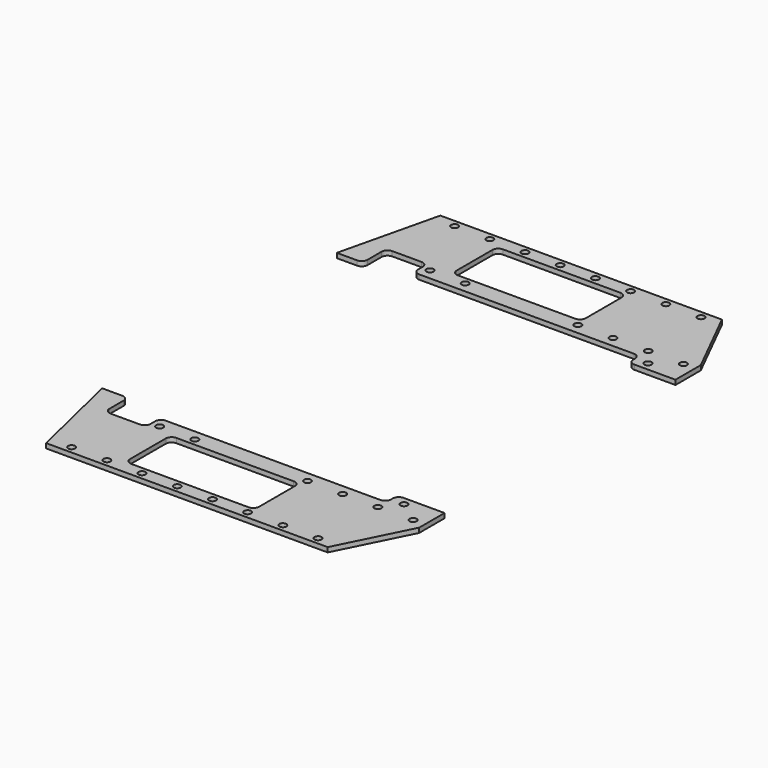
from build123d import *

# Parameters (mm, degrees)
F0_W      = 320
F0_H      = 420
F1_DEPTH  = 4
F3_DEPTH  = 4
F4_R      = 3
F5_DEPTH  = 25
F6_R      = 3
F7_DEPTH  = 25
F8_R      = 3
F9_DEPTH  = 25
F11_DEPTH = 25


with BuildPart() as f1:
    # F0 (on Top) → F1 (new body)
    with BuildSketch(Plane.XY):
        with Locations((160, 210)):
            Rectangle(F0_W, F0_H)
    extrude(amount=F1_DEPTH)

    # F2 (on face) → F3 (cut, through all)
    with BuildSketch(Plane.XY.offset(4)):
        Polygon((320, 420), (290, 420), (320, 360), align=None)
        Polygon((320, 60), (290, 0), (320, 0), align=None)
        with BuildLine():
            Line((113, 360), (213, 360))
            ThreePointArc((213, 360), (216.535534, 361.464466), (218, 365))
            Line((218, 365), (218, 403))
            ThreePointArc((218, 403), (216.535534, 406.535534), (213, 408))
            Line((213, 408), (113, 408))
            ThreePointArc((113, 408), (109.464466, 406.535534), (108, 403))
            Line((108, 403), (108, 365))
            ThreePointArc((108, 365), (109.464466, 361.464466), (113, 360))
        make_face()
        with BuildLine():
            Line((113, 12), (213, 12))
            ThreePointArc((213, 12), (216.535534, 13.464466), (218, 17))
            Line((218, 17), (218, 55))
            ThreePointArc((218, 55), (216.535534, 58.535534), (213, 60))
            Line((213, 60), (113, 60))
            ThreePointArc((113, 60), (109.464466, 58.535534), (108, 55))
            Line((108, 55), (108, 17))
            ThreePointArc((108, 17), (109.464466, 13.464466), (113, 12))
        make_face()
        Polygon((0, 420), (0, 210), (50, 420), align=None)
        Polygon((50, 0), (0, 210), (0, 0), align=None)
    extrude(amount=-F3_DEPTH, mode=Mode.SUBTRACT)

    # F4 (on face) → F5 (cut)
    with BuildSketch(Plane.XY.offset(4)):
        with Locations((67, 6)):
            Circle(F4_R)
        with Locations((97, 6)):
            Circle(F4_R)
        with Locations((127, 6)):
            Circle(F4_R)
        with Locations((157, 6)):
            Circle(F4_R)
        with Locations((187, 6)):
            Circle(F4_R)
        with Locations((217, 6)):
            Circle(F4_R)
        with Locations((247, 6)):
            Circle(F4_R)
        with Locations((277, 6)):
            Circle(F4_R)
        with Locations((64, 66)):
            Circle(F4_R)
        with Locations((94, 66)):
            Circle(F4_R)
        with Locations((124, 66)):
            Circle(F4_R)
        with Locations((220, 66)):
            Circle(F4_R)
        with Locations((250, 66)):
            Circle(F4_R)
        with Locations((280, 66)):
            Circle(F4_R)
        with Locations((310, 66)):
            Circle(F4_R)
        with Locations((67, 414)):
            Circle(F4_R)
        with Locations((64, 354)):
            Circle(F4_R)
        with Locations((97, 414)):
            Circle(F4_R)
        with Locations((310, 354)):
            Circle(F4_R)
        with Locations((277, 414)):
            Circle(F4_R)
        with Locations((94, 354)):
            Circle(F4_R)
        with Locations((220, 354)):
            Circle(F4_R)
        with Locations((280, 354)):
            Circle(F4_R)
        with Locations((124, 354)):
            Circle(F4_R)
        with Locations((127, 414)):
            Circle(F4_R)
        with Locations((250, 354)):
            Circle(F4_R)
        with Locations((157, 414)):
            Circle(F4_R)
        with Locations((187, 414)):
            Circle(F4_R)
        with Locations((217, 414)):
            Circle(F4_R)
        with Locations((247, 414)):
            Circle(F4_R)
    extrude(amount=-F5_DEPTH, mode=Mode.SUBTRACT)

    # F6 (on face) → F7 (cut)
    with BuildSketch(Plane.XY.offset(4)):
        with Locations((121, 90)):
            Circle(F6_R)
        with Locations((121, 130)):
            Circle(F6_R)
        with Locations((121, 170)):
            Circle(F6_R)
        with Locations((206, 90)):
            Circle(F6_R)
        with Locations((206, 130)):
            Circle(F6_R)
        with Locations((206, 170)):
            Circle(F6_R)
        with Locations((291, 80)):
            Circle(F6_R)
        with Locations((291, 120)):
            Circle(F6_R)
        with Locations((291, 160)):
            Circle(F6_R)
        with Locations((121, 330)):
            Circle(F6_R)
        with Locations((121, 290)):
            Circle(F6_R)
        with Locations((206, 330)):
            Circle(F6_R)
        with Locations((206, 250)):
            Circle(F6_R)
        with Locations((291, 340)):
            Circle(F6_R)
        with Locations((121, 250)):
            Circle(F6_R)
        with Locations((206, 290)):
            Circle(F6_R)
        with Locations((291, 300)):
            Circle(F6_R)
        with Locations((291, 260)):
            Circle(F6_R)
    extrude(amount=-F7_DEPTH, mode=Mode.SUBTRACT)

    # F8 (on face) → F9 (cut)
    with BuildSketch(Plane.XY.offset(4)):
        with Locations((15, 210)):
            Circle(F8_R)
        with Locations((45, 210)):
            Circle(F8_R)
    extrude(amount=-F9_DEPTH, mode=Mode.SUBTRACT)

    # F10 (on face) → F11 (cut)
    with BuildSketch(Plane.XY.offset(4)):
        with BuildLine():
            Line((87, 350), (87, 355))
            ThreePointArc((87, 355), (85.535534, 358.535534), (82, 360))
            Line((82, 360), (57, 360))
            ThreePointArc((57, 360), (53.464466, 358.535534), (52, 355))
            Line((52, 355), (52, 340))
            ThreePointArc((52, 340), (50.535534, 336.464466), (47, 335))
            Line((47, 335), (0, 335))
            Line((0, 335), (0, 210))
            Line((0, 210), (0, 85))
            Line((0, 85), (47, 85))
            ThreePointArc((47, 85), (50.535534, 83.535534), (52, 80))
            Line((52, 80), (52, 65))
            ThreePointArc((52, 65), (53.464466, 61.464466), (57, 60))
            Line((57, 60), (82, 60))
            ThreePointArc((82, 60), (85.535534, 61.464466), (87, 65))
            Line((87, 65), (87, 70))
            ThreePointArc((87, 70), (88.464466, 73.535534), (92, 75))
            Line((92, 75), (275, 75))
            ThreePointArc((275, 75), (278.535534, 76.464466), (280, 80))
            Line((280, 80), (280, 82))
            ThreePointArc((280, 82), (281.464466, 85.535534), (285, 87))
            Line((285, 87), (320, 87))
            Line((320, 87), (320, 210))
            Line((320, 210), (320, 333))
            Line((320, 333), (285, 333))
            ThreePointArc((285, 333), (281.464466, 334.464466), (280, 338))
            Line((280, 338), (280, 340))
            ThreePointArc((280, 340), (278.535534, 343.535534), (275, 345))
            Line((275, 345), (92, 345))
            ThreePointArc((92, 345), (88.464466, 346.464466), (87, 350))
        make_face()
    extrude(amount=-F11_DEPTH, mode=Mode.SUBTRACT)


solid = f1.part
